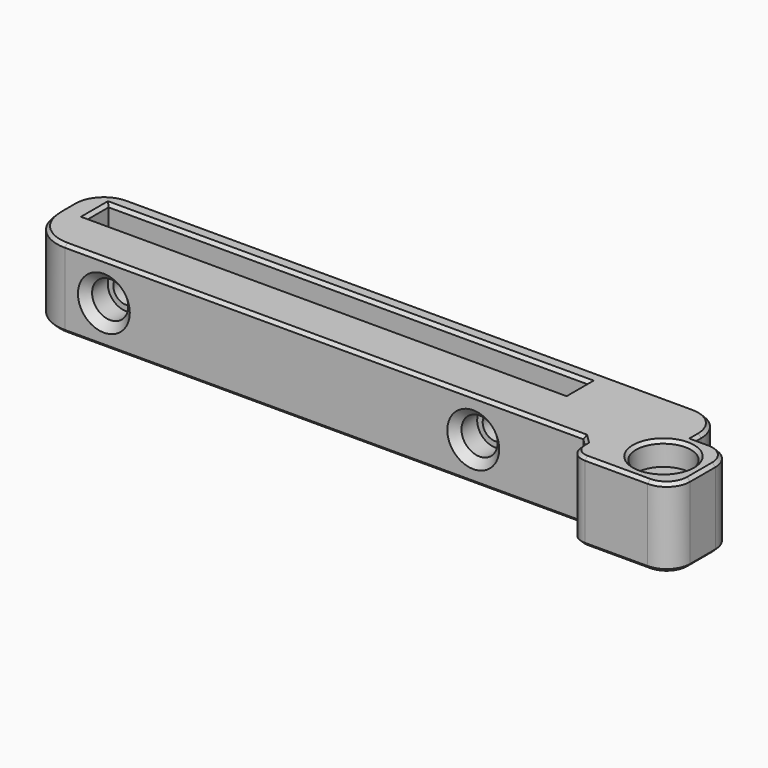
from build123d import *

# Parameters (mm, degrees)
SKETCH058_W          = 85
SKETCH058_H          = 10
SKETCH058_R          = 1.6
PAD030_DEPTH         = 10
FILLET019_R          = 3
SKETCH059_W          = 80
SKETCH059_H          = 5
PAD031_DEPTH         = 10
SKETCH060_W          = 61
SKETCH060_H          = 3.5
POCKET027_DEPTH      = 10.001
FILLET020_R          = 4
CHAMFER014_SIZE      = 5
SKETCH061_R          = 1.6
POCKET028_DEPTH      = 10.001
POCKET028_DEPTH_BACK = 5.001
CHAMFER015_SIZE      = 1.9
SKETCH062_R          = 2.3
POCKET029_DEPTH      = 7
CHAMFER016_SIZE      = 1
FILLET021_R          = 10
FILLET022_R          = 3
CHAMFER017_SIZE      = 0.5
SKETCH063_R          = 3.5
POCKET030_DEPTH      = 3
SKETCH064_R          = 3.5
POCKET031_DEPTH      = 3
SKETCH065_W          = 72
SKETCH065_H          = 3.5
POCKET032_DEPTH      = 10.001
FILLET023_R          = 2
FILLET024_R          = 5
CHAMFER018_SIZE      = 1
CHAMFER019_SIZE      = 1
CHAMFER020_SIZE      = 0.4


with BuildPart() as part:
    # Sketch058 → Pad030 (new body)
    with BuildSketch(Plane.XY):
        with Locations((-37.5, 0)):
            Rectangle(SKETCH058_W, SKETCH058_H)
        Circle(SKETCH058_R, mode=Mode.SUBTRACT)
    extrude(amount=PAD030_DEPTH)

    # Fillet019
    fillet019_edges = [part.edges().sort_by_distance(p)[0] for p in [
        (5, 5, 5),
        (5, -5, 5),
    ]]
    fillet(fillet019_edges, radius=FILLET019_R)

    # Sketch059 → Pad031 (join)
    with BuildSketch(Plane.XY):
        with Locations((-40, 7.5)):
            Rectangle(SKETCH059_W, SKETCH059_H)
    extrude(amount=PAD031_DEPTH)

    # Sketch060 → Pocket027 (cut, through all)
    with BuildSketch(Plane.XY):
        with Locations((-46.5, 6.25)):
            Rectangle(SKETCH060_W, SKETCH060_H)
    extrude(amount=POCKET027_DEPTH, mode=Mode.SUBTRACT)

    # Fillet020
    fillet020_edges = [part.edges().sort_by_distance(p)[0] for p in [
        (0, 10, 5),
        (-80, 10, 5),
    ]]
    fillet(fillet020_edges, radius=FILLET020_R)

    # Chamfer014
    chamfer014_edges = [part.edges().sort_by_distance(p)[0] for p in [
        (-80, -5, 5),
    ]]
    chamfer(chamfer014_edges, length=CHAMFER014_SIZE)

    # Sketch061 → Pocket028 (cut, two sides)
    with BuildSketch(Plane.XZ) as pocket028_sk:
        with Locations((-23, 5)):
            Circle(SKETCH061_R)
        with Locations((-70, 5)):
            Circle(SKETCH061_R)
    extrude(amount=-POCKET028_DEPTH, mode=Mode.SUBTRACT)
    extrude(pocket028_sk.sketch, amount=POCKET028_DEPTH_BACK, mode=Mode.SUBTRACT)

    # Chamfer015
    chamfer015_edges = [part.edges().sort_by_distance(p)[0] for p in [
        (-71.6, 10, 5),
        (-24.6, 10, 5),
    ]]
    chamfer(chamfer015_edges, length=CHAMFER015_SIZE)

    # Sketch062 (on Face11 of Chamfer015) → Pocket029 (cut)
    with BuildSketch(Plane.XZ.offset(5)):
        with Locations((-70, 5)):
            Circle(SKETCH062_R)
        with Locations((-23, 5)):
            Circle(SKETCH062_R)
    extrude(amount=-POCKET029_DEPTH, mode=Mode.SUBTRACT)

    # Chamfer016
    chamfer016_edges = [part.edges().sort_by_distance(p)[0] for p in [
        (-72.3, -5, 5),
        (-25.3, -5, 5),
    ]]
    chamfer(chamfer016_edges, length=CHAMFER016_SIZE)

    # Fillet021
    fillet021_edges = [part.edges().sort_by_distance(p)[0] for p in [
        (-80, 0, 5),
    ]]
    fillet(fillet021_edges, radius=FILLET021_R)

    # Fillet022
    fillet022_edges = [part.edges().sort_by_distance(p)[0] for p in [
        (-75, -5, 5),
    ]]
    fillet(fillet022_edges, radius=FILLET022_R)

    # Chamfer017
    chamfer017_edges = [part.edges().sort_by_distance(p)[0] for p in [
        (-71.6, 4.5, 5),
        (-24.6, 4.5, 5),
    ]]
    chamfer(chamfer017_edges, length=CHAMFER017_SIZE)

    # Sketch063 (on Face6 of Chamfer017) → Pocket030 (cut)
    with BuildSketch(Plane.XY.offset(10)):
        Circle(SKETCH063_R)
    extrude(amount=-POCKET030_DEPTH, mode=Mode.SUBTRACT)

    # Sketch064 (on Face3 of Pocket030) → Pocket031 (cut)
    with BuildSketch(Plane(origin=(0, 0, 0), x_dir=(1, 0, 0), z_dir=(0, 0, -1))):
        Circle(SKETCH064_R)
    extrude(amount=-POCKET031_DEPTH, mode=Mode.SUBTRACT)

    # Sketch065 → Pocket032 (cut, through all)
    with BuildSketch(Plane.XY):
        with Locations((-44, -3.25)):
            Rectangle(SKETCH065_W, SKETCH065_H)
    extrude(amount=POCKET032_DEPTH, mode=Mode.SUBTRACT)

    # Fillet023
    fillet023_edges = [part.edges().sort_by_distance(p)[0] for p in [
        (-8, -5, 5),
    ]]
    fillet(fillet023_edges, radius=FILLET023_R)

    # Fillet024
    fillet024_edges = [part.edges().sort_by_distance(p)[0] for p in [
        (-78.256289, -1.5, 5),
    ]]
    fillet(fillet024_edges, radius=FILLET024_R)

    # Chamfer018
    chamfer018_edges = [part.edges().sort_by_distance(p)[0] for p in [
        (-8, -1.5, 5),
    ]]
    chamfer(chamfer018_edges, length=CHAMFER018_SIZE)

    # Chamfer019
    chamfer019_edges = [part.edges().sort_by_distance(p)[0] for p in [
        (-72.3, -1.5, 5),
        (-25.3, -1.5, 5),
    ]]
    chamfer(chamfer019_edges, length=CHAMFER019_SIZE)

    # Chamfer020
    chamfer020_edges = [part.edges().sort_by_distance(p)[0] for p in [
        (-41.979297, -1.5, 10),
        (-8.5, -2, 10),
        (-78.259301, -0.255708, 10),
        (-8, -2.75, 10),
        (-79.979276, 3.498666, 10),
        (-7.414214, -4.414214, 10),
        (-80, 5.071068, 10),
        (-2, -5, 10),
        (-78.828427, 8.828427, 10),
        (4.12132, -4.12132, 10),
        (-40, 10, 10),
        (5, 0, 10),
        (-1.171573, 8.828427, 10),
        (4.12132, 4.12132, 10),
        (0, 5.5, 10),
        (1, 5, 10),
        (-3.5, 0, 10),
        (-46.5, 8, 10),
        (-16, 6.25, 10),
        (-77, 6.25, 10),
        (-46.5, 4.5, 10),
        (-41.979297, -1.5, 0),
        (-8.5, -2, 0),
        (-78.259301, -0.255708, 0),
        (-8, -2.75, 0),
        (-79.979276, 3.498666, 0),
        (-7.414214, -4.414214, 0),
        (-80, 5.071068, 0),
        (-2, -5, 0),
        (-78.828427, 8.828427, 0),
        (4.12132, -4.12132, 0),
        (-40, 10, 0),
        (5, 0, 0),
        (-1.171573, 8.828427, 0),
        (4.12132, 4.12132, 0),
        (0, 5.5, 0),
        (1, 5, 0),
        (-3.5, 0, 0),
        (-46.5, 8, 0),
        (-77, 6.25, 0),
        (-16, 6.25, 0),
        (-46.5, 4.5, 0),
    ]]
    chamfer(chamfer020_edges, length=CHAMFER020_SIZE)


solid = part.part
